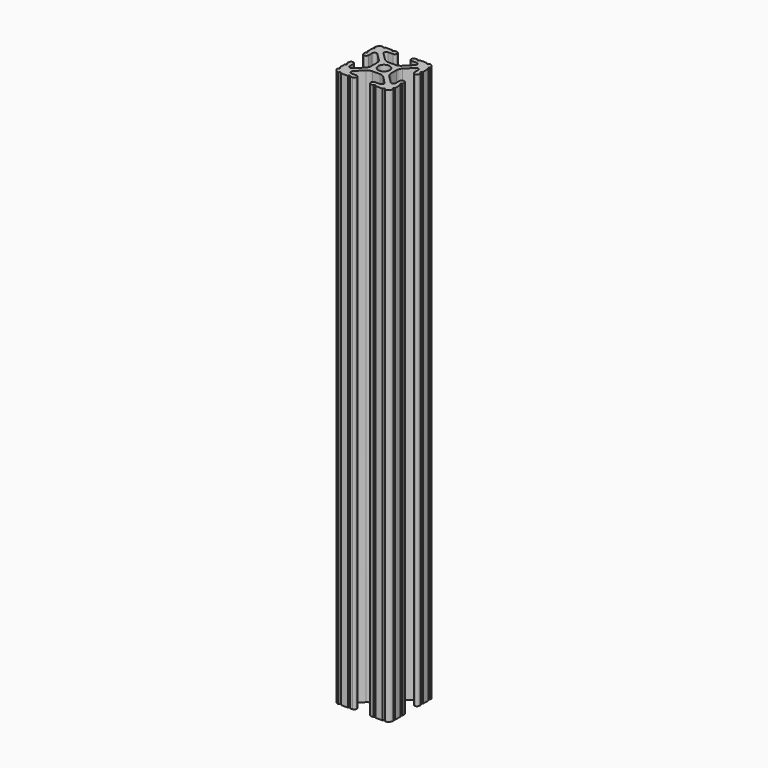
from build123d import *

# Parameters (mm, degrees)
SKETCH097_R   = 2.6035
EXTRUDE_DEPTH = 254


with BuildPart() as part:
    # Sketch097 → Extrude (new body)
    with BuildSketch(Plane.XY):
        with BuildLine():
            ThreePointArc((12.7, 6.333084), (12.192, 5.825084), (12.7, 5.317084))
            Line((12.7, 4.287469), (12.7, 5.317084))
            ThreePointArc((11.650988, 3.238457), (12.392751, 3.545706), (12.7, 4.287469))
            Line((11.539212, 3.238457), (11.650988, 3.238457))
            ThreePointArc((10.4902, 4.287469), (10.797449, 3.545706), (11.539212, 3.238457))
            Line((10.4902, 6.402089), (10.4902, 4.287469))
            ThreePointArc((10.4902, 6.402089), (9.856505, 7.351068), (8.737131, 7.129409))
            Line((5.441006, 3.840816), (8.737131, 7.129409))
            ThreePointArc((5.441006, 3.840816), (4.750878, 2.809883), (4.5085, 1.593186))
            Line((4.5085, -1.593186), (4.5085, 1.593186))
            ThreePointArc((4.5085, -1.593186), (4.750878, -2.809883), (5.441006, -3.840816))
            Line((8.737131, -7.129409), (5.441006, -3.840816))
            ThreePointArc((8.737131, -7.129409), (9.856505, -7.351068), (10.4902, -6.402089))
            Line((10.4902, -4.287469), (10.4902, -6.402089))
            ThreePointArc((11.539212, -3.238457), (10.797449, -3.545706), (10.4902, -4.287469))
            Line((11.650988, -3.238457), (11.539212, -3.238457))
            ThreePointArc((12.7, -4.287469), (12.392751, -3.545706), (11.650988, -3.238457))
            Line((12.7, -5.317084), (12.7, -4.287469))
            ThreePointArc((12.7, -5.317084), (12.192, -5.825084), (12.7, -6.333084))
            Line((12.7, -9.5504), (12.7, -6.333084))
            ThreePointArc((12.7, -9.5504), (12.192, -10.058323), (12.699847, -10.5664))
            ThreePointArc((10.566443, -12.699848), (12.082538, -12.082507), (12.699847, -10.5664))
            ThreePointArc((10.566443, -12.699848), (10.058367, -12.192), (9.550443, -12.7))
            Line((6.333127, -12.7), (9.550443, -12.7))
            ThreePointArc((6.333127, -12.7), (5.825127, -12.192), (5.317127, -12.7))
            Line((4.287512, -12.7), (5.317127, -12.7))
            ThreePointArc((3.2385, -11.650988), (3.545749, -12.392751), (4.287512, -12.7))
            Line((3.2385, -11.539212), (3.2385, -11.650988))
            ThreePointArc((4.287512, -10.4902), (3.545749, -10.797449), (3.2385, -11.539212))
            Line((6.416408, -10.4902), (4.287512, -10.4902))
            ThreePointArc((6.416408, -10.4902), (7.414731, -9.822813), (7.17965, -8.645193))
            Line((3.95227, -5.42369), (7.17965, -8.645193))
            ThreePointArc((3.95227, -5.42369), (2.922936, -4.736929), (1.709254, -4.4958))
            Line((-1.709254, -4.4958), (1.709254, -4.4958))
            ThreePointArc((-1.709254, -4.4958), (-2.922936, -4.736929), (-3.95227, -5.42369))
            Line((-7.17965, -8.645193), (-3.95227, -5.42369))
            ThreePointArc((-7.17965, -8.645193), (-7.414731, -9.822813), (-6.416408, -10.4902))
            Line((-4.287512, -10.4902), (-6.416408, -10.4902))
            ThreePointArc((-3.2385, -11.539212), (-3.545749, -10.797449), (-4.287512, -10.4902))
            Line((-3.2385, -11.650988), (-3.2385, -11.539212))
            ThreePointArc((-4.287512, -12.7), (-3.545749, -12.392751), (-3.2385, -11.650988))
            Line((-5.317127, -12.7), (-4.287512, -12.7))
            ThreePointArc((-5.317127, -12.7), (-5.825127, -12.192), (-6.333127, -12.7))
            Line((-9.550443, -12.7), (-6.333127, -12.7))
            ThreePointArc((-9.550443, -12.7), (-10.058367, -12.192), (-10.566443, -12.699848))
            ThreePointArc((-12.699847, -10.5664), (-12.082538, -12.082507), (-10.566443, -12.699848))
            ThreePointArc((-12.699847, -10.5664), (-12.192, -10.058323), (-12.7, -9.5504))
            Line((-12.7, -6.333084), (-12.7, -9.5504))
            ThreePointArc((-12.7, -6.333084), (-12.192, -5.825084), (-12.7, -5.317084))
            Line((-12.7, -4.287469), (-12.7, -5.317084))
            ThreePointArc((-11.650988, -3.238457), (-12.392751, -3.545706), (-12.7, -4.287469))
            Line((-11.539212, -3.238457), (-11.650988, -3.238457))
            ThreePointArc((-10.4902, -4.287469), (-10.797449, -3.545706), (-11.539212, -3.238457))
            Line((-10.4902, -6.402089), (-10.4902, -4.287469))
            ThreePointArc((-10.4902, -6.402089), (-9.856505, -7.351068), (-8.737131, -7.129409))
            Line((-5.441006, -3.840816), (-8.737131, -7.129409))
            ThreePointArc((-5.441006, -3.840816), (-4.750878, -2.809883), (-4.5085, -1.593186))
            Line((-4.5085, 1.593186), (-4.5085, -1.593186))
            ThreePointArc((-4.5085, 1.593186), (-4.750878, 2.809883), (-5.441006, 3.840816))
            Line((-8.737131, 7.129409), (-5.441006, 3.840816))
            ThreePointArc((-8.737131, 7.129409), (-9.856505, 7.351068), (-10.4902, 6.402089))
            Line((-10.4902, 4.287469), (-10.4902, 6.402089))
            ThreePointArc((-11.539212, 3.238457), (-10.797449, 3.545706), (-10.4902, 4.287469))
            Line((-11.650988, 3.238457), (-11.539212, 3.238457))
            ThreePointArc((-12.7, 4.287469), (-12.392751, 3.545706), (-11.650988, 3.238457))
            Line((-12.7, 5.317084), (-12.7, 4.287469))
            ThreePointArc((-12.7, 5.317084), (-12.192, 5.825084), (-12.7, 6.333084))
            Line((-12.7, 9.5504), (-12.7, 6.333084))
            ThreePointArc((-12.7, 9.5504), (-12.192, 10.058323), (-12.699847, 10.5664))
            ThreePointArc((-10.566443, 12.699848), (-12.082538, 12.082507), (-12.699847, 10.5664))
            ThreePointArc((-10.566443, 12.699848), (-10.058367, 12.192), (-9.550443, 12.7))
            Line((-6.333127, 12.7), (-9.550443, 12.7))
            ThreePointArc((-6.333127, 12.7), (-5.825127, 12.192), (-5.317127, 12.7))
            Line((-4.287512, 12.7), (-5.317127, 12.7))
            ThreePointArc((-3.2385, 11.650988), (-3.545749, 12.392751), (-4.287512, 12.7))
            Line((-3.2385, 11.539212), (-3.2385, 11.650988))
            ThreePointArc((-4.287512, 10.4902), (-3.545749, 10.797449), (-3.2385, 11.539212))
            Line((-6.476789, 10.4902), (-4.287512, 10.4902))
            ThreePointArc((-6.476789, 10.4902), (-7.432222, 9.851404), (-7.207036, 8.724371))
            Line((-3.898273, 5.423169), (-7.207036, 8.724371))
            ThreePointArc((-3.898273, 5.423169), (-2.86912, 4.736788), (-1.655778, 4.4958))
            Line((1.655778, 4.4958), (-1.655778, 4.4958))
            ThreePointArc((1.655778, 4.4958), (2.86912, 4.736788), (3.898273, 5.423169))
            Line((7.207036, 8.724371), (3.898273, 5.423169))
            ThreePointArc((7.207036, 8.724371), (7.432222, 9.851404), (6.476789, 10.4902))
            Line((4.287512, 10.4902), (6.476789, 10.4902))
            ThreePointArc((3.2385, 11.539212), (3.545749, 10.797449), (4.287512, 10.4902))
            Line((3.2385, 11.650988), (3.2385, 11.539212))
            ThreePointArc((4.287512, 12.7), (3.545749, 12.392751), (3.2385, 11.650988))
            Line((5.317127, 12.7), (4.287512, 12.7))
            ThreePointArc((5.317127, 12.7), (5.825127, 12.192), (6.333127, 12.7))
            Line((9.550443, 12.7), (6.333127, 12.7))
            ThreePointArc((9.550443, 12.7), (10.058367, 12.192), (10.566443, 12.699848))
            ThreePointArc((12.699847, 10.5664), (12.082538, 12.082507), (10.566443, 12.699848))
            ThreePointArc((12.699847, 10.5664), (12.192, 10.058323), (12.7, 9.5504))
            Line((12.7, 6.333084), (12.7, 9.5504))
        make_face()
        Circle(SKETCH097_R, mode=Mode.SUBTRACT)
    extrude(amount=EXTRUDE_DEPTH)


solid = part.part
